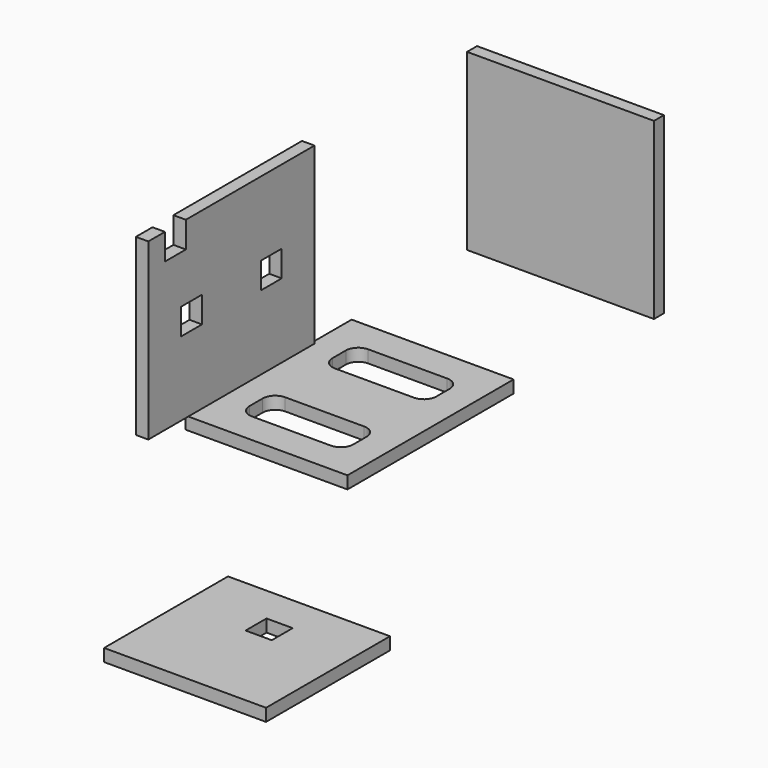
from build123d import *

# Parameters (mm, degrees)
F0_W     = 39
F0_H     = 37.3
F0_W_2   = 6.3
F0_H_2   = 6.3
F1_DEPTH = 3
F2_W     = 6.3
F2_H     = 6.3
F3_DEPTH = 3
F4_W     = 39
F4_H     = 50
F5_DEPTH = 3
F6_W     = 45
F6_H     = 42
F7_DEPTH = 3


with BuildPart() as f1:
    # F0 (on Top) → F1 (new body)
    with BuildSketch(Plane.XY):
        with Locations((-5.556118, -140.21081)):
            Rectangle(F0_W, F0_H)
        with Locations((-5.556118, -133.56081)):
            Rectangle(F0_W_2, F0_H_2, mode=Mode.SUBTRACT)
    extrude(amount=F1_DEPTH)


with BuildPart() as f3:
    # F2 (on Right) → F3 (new body)
    with BuildSketch(Plane.YZ):
        Polygon((-180.614469, 65.129462), (-130.614469, 65.129462), (-130.614469, 107.129462), (-169.314469, 107.129462), (-169.314469, 100.829462), (-175.614469, 100.829462), (-175.614469, 107.129462), (-180.614469, 107.129462), align=None)
        with Locations((-167.614469, 86.129462)):
            Rectangle(F2_W, F2_H, mode=Mode.SUBTRACT)
        with Locations((-143.614469, 86.129462)):
            Rectangle(F2_W, F2_H, mode=Mode.SUBTRACT)
    extrude(amount=F3_DEPTH)


with BuildPart() as f5:
    # F4 (on Top) → F5 (new body)
    with BuildSketch(Plane.XY):
        with Locations((-52.727118, -50.394673)):
            Rectangle(F4_W, F4_H)
        with BuildLine():
            ThreePointArc((-65.227118, -60.894673), (-64.348439, -58.773353), (-62.227118, -57.894673))
            Line((-62.227118, -57.894673), (-43.227118, -57.894673))
            ThreePointArc((-43.227118, -57.894673), (-41.105798, -58.773353), (-40.227118, -60.894673))
            Line((-40.227118, -60.894673), (-40.227118, -64.894673))
            ThreePointArc((-40.227118, -64.894673), (-41.105798, -67.015994), (-43.227118, -67.894673))
            Line((-43.227118, -67.894673), (-62.227118, -67.894673))
            ThreePointArc((-62.227118, -67.894673), (-64.348439, -67.015994), (-65.227118, -64.894673))
            Line((-65.227118, -64.894673), (-65.227118, -60.894673))
        make_face(mode=Mode.SUBTRACT)
        with BuildLine():
            Line((-43.227118, -42.894673), (-62.227118, -42.894673))
            ThreePointArc((-62.227118, -42.894673), (-64.348439, -42.015994), (-65.227118, -39.894673))
            Line((-65.227118, -39.894673), (-65.227118, -35.894673))
            ThreePointArc((-65.227118, -35.894673), (-64.348439, -33.773353), (-62.227118, -32.894673))
            Line((-62.227118, -32.894673), (-43.227118, -32.894673))
            ThreePointArc((-43.227118, -32.894673), (-41.105798, -33.773353), (-40.227118, -35.894673))
            Line((-40.227118, -35.894673), (-40.227118, -39.894673))
            ThreePointArc((-40.227118, -39.894673), (-41.105798, -42.015994), (-43.227118, -42.894673))
        make_face(mode=Mode.SUBTRACT)
    extrude(amount=F5_DEPTH)


with BuildPart() as f7:
    # F6 (on Front) → F7 (new body)
    with BuildSketch(Plane.XZ):
        with Locations((-39.849168, 32.863347)):
            Rectangle(F6_W, F6_H)
    extrude(amount=F7_DEPTH)


solid = Compound([f1.part, f3.part, f5.part, f7.part])
